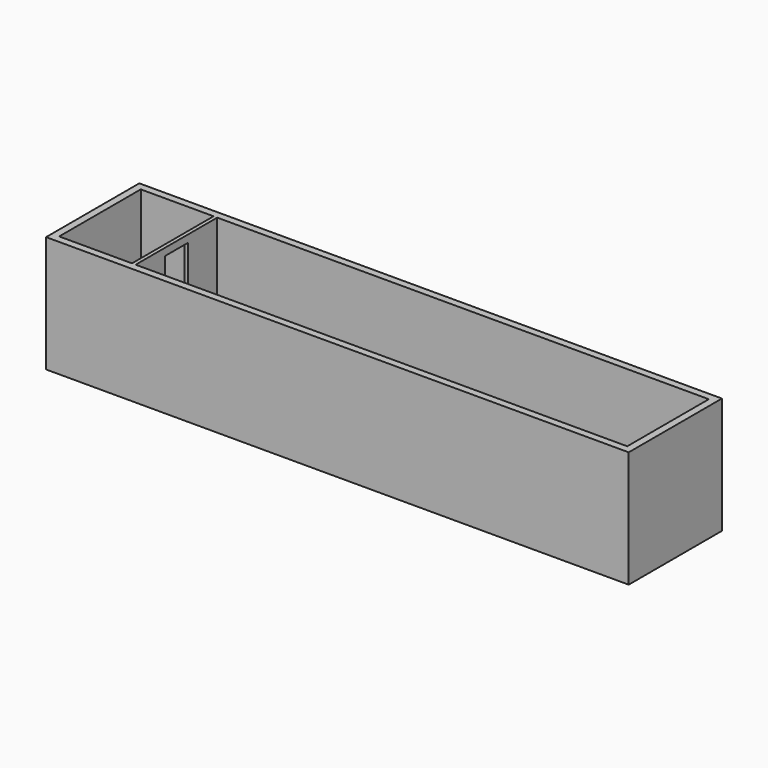
from build123d import *

# Parameters (mm, degrees)
F0_W          = 101.6
F0_H          = 20.32
F1_DEPTH      = 10.16
F1_DEPTH_BACK = 10.16
F2_W          = 99.06
F2_H          = 17.78
F3_DEPTH      = 19.05
F4_W          = 0.635
F4_H          = 6.35
F5_DEPTH      = 19.05
F6_START      = 17.78
F4_H_2        = 5.08
F6_DEPTH      = 1.27


with BuildPart() as f1:
    # F0 (on Front) → F1 (new body, two sides)
    with BuildSketch(Plane.XZ) as f1_sk:
        Rectangle(F0_W, F0_H)
    extrude(amount=F1_DEPTH)
    extrude(f1_sk.sketch, amount=-F1_DEPTH_BACK)

    # F2 (on face) → F3 (cut)
    with BuildSketch(Plane.XY.offset(10.16)):
        Rectangle(F2_W, F2_H)
    extrude(amount=-F3_DEPTH, mode=Mode.SUBTRACT)

    # F4 (on face) → F5 (join)
    with BuildSketch(Plane.XY.offset(-8.89)):
        with Locations((-36.5125, -5.715)):
            Rectangle(F4_W, F4_H)
        with Locations((-36.5125, 5.715)):
            Rectangle(F4_W, F4_H)
    extrude(amount=F5_DEPTH)

    # F4 (on face) → F6 (join)
    with BuildSketch(Plane.XY.offset(-8.89).offset(F6_START)):
        with Locations((-36.5125, 0)):
            Rectangle(F4_W, F4_H_2)
    extrude(amount=F6_DEPTH)


solid = f1.part
